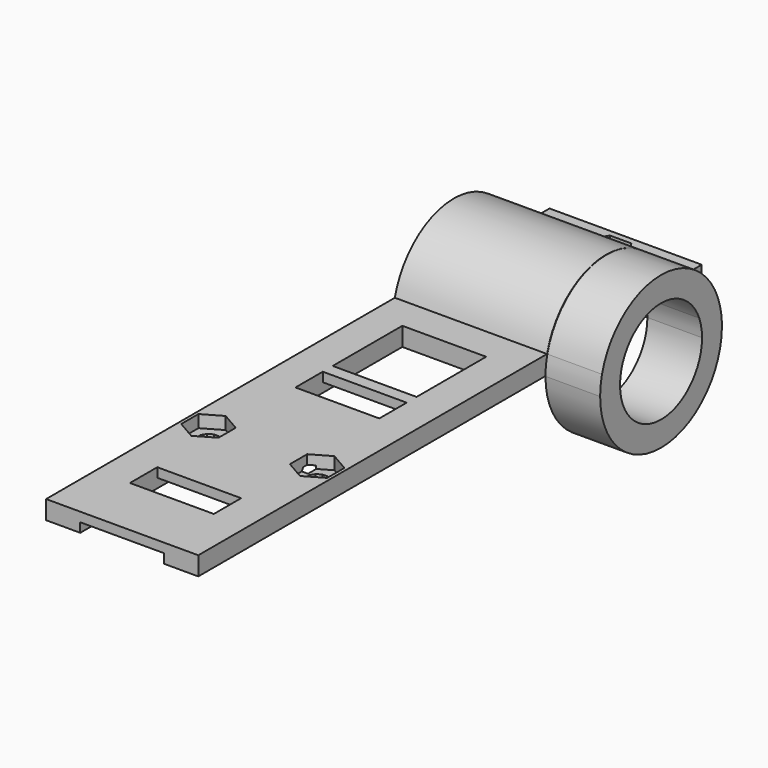
from build123d import *

# Parameters (mm, degrees)
F1_START = 6.75
F0_W     = 14
F0_H     = 1.5
F0_W_2   = 2
F0_W_3   = 5.5
F1_DEPTH = 5.5
F2_DEPTH = 6.75
F5_DEPTH = 6
F6_START = 1
F6_DEPTH = 24
F7_START = 12.3
F7_DEPTH = 8.8


with BuildPart() as f1:
    # F0 (on Right) → F1 (new body)
    with BuildSketch(Plane.YZ.offset(F1_START)):
        with BuildLine():
            ThreePointArc((48.0505140551, 3), (48.3299262154, 1.5115512524), (48.4235405349, 0))
            Line((48.4235405349, 0), (55.4235405349, 0))
            Line((55.4235405349, 0), (55.4235405349, 3))
            Line((55.4235405349, 3), (48.0505140551, 3))
        make_face()
        with BuildLine():
            Line((44.4235405349, 0), (48.4235405349, 0))
            ThreePointArc((48.4235405349, 0), (48.3299262154, 1.5115512524), (48.0505140551, 3))
            Line((48.0505140551, 3), (43.8587536094, 3))
            ThreePointArc((43.8587536094, 3), (44.2811143972, 1.5263505717), (44.4235405349, 0))
        make_face()
        with BuildLine():
            ThreePointArc((48.0505140551, 3), (36.1735405349, 12.25), (24.2965670147, 3))
            Line((24.2965670147, 3), (28.4883274605, 3))
            ThreePointArc((28.4883274605, 3), (36.1735405349, 8.25), (43.8587536094, 3))
            Line((43.8587536094, 3), (48.0505140551, 3))
        make_face()
        with BuildLine():
            ThreePointArc((24.2965670147, 3), (24.0171548545, 1.5115512524), (23.9235405349, 0))
            Line((23.9235405349, 0), (27.9235405349, 0))
            ThreePointArc((27.9235405349, 0), (28.0659666727, 1.5263505717), (28.4883274605, 3))
            Line((28.4883274605, 3), (24.2965670147, 3))
        make_face()
        with BuildLine():
            Line((18.9235405349, 1.5), (18.9235405349, 0))
            Line((18.9235405349, 0), (23.9235405349, 0))
            ThreePointArc((23.9235405349, 0), (24.0171548545, 1.5115512524), (24.2965670147, 3))
            Line((24.2965670147, 3), (18.9235405349, 3))
            Line((18.9235405349, 3), (18.9235405349, 1.5))
        make_face()
        with Locations((11.9235405349, 2.25)):
            Rectangle(F0_W, F0_H)
        with Locations((3.9235405349, 2.25)):
            Rectangle(F0_W_2, F0_H)
        Polygon((-44.6627688753, 1.5), (-45.8764594651, 1.5), (-45.8764594651, 0), (18.9235405349, 0), (18.9235405349, 1.5), (4.9235405349, 1.5), (2.9235405349, 1.5), (-2.5764594651, 1.5), (-8.6444086575, 1.5), (-9.0774213594, 0.75), (-9.9434467632, 0.75), (-10.3764594651, 1.5), (-12.6444086575, 1.5), (-13.0774213594, 0.75), (-13.9434467632, 0.75), (-14.3764594651, 1.5), (-16.6444086575, 1.5), (-17.0774213594, 0.75), (-17.9434467632, 0.75), (-18.3764594651, 1.5), (-20.6444086575, 1.5), (-21.0774213594, 0.75), (-21.9434467632, 0.75), (-22.3764594651, 1.5), (-24.6444086575, 1.5), (-25.0774213594, 0.75), (-25.9434467632, 0.75), (-26.3764594651, 1.5), (-30.3764594651, 1.5), (-35.8764594651, 1.5), (-38.9307180678, 1.5), (-39.3637307697, 0.75), (-40.2297561734, 0.75), (-40.7805591822, 1.5), (-42.9307180678, 1.5), (-43.3637307697, 0.75), (-44.2297561734, 0.75), align=None)
        with Locations((0.1735405349, 2.25)):
            Rectangle(F0_W_3, F0_H)
        Polygon((-2.5764594651, 3), (-30.3764594651, 3), (-30.3764594651, 1.5), (-26.3764594651, 1.5), (-24.6444086575, 1.5), (-22.3764594651, 1.5), (-20.6444086575, 1.5), (-18.3764594651, 1.5), (-16.6444086575, 1.5), (-14.3764594651, 1.5), (-12.6444086575, 1.5), (-10.3764594651, 1.5), (-8.6444086575, 1.5), (-2.5764594651, 1.5), align=None)
        Polygon((-9.0774213594, 0.75), (-8.6444086575, 1.5), (-10.3764594651, 1.5), (-9.9434467632, 0.75), align=None)
        Polygon((-13.0774213594, 0.75), (-12.6444086575, 1.5), (-14.3764594651, 1.5), (-13.9434467632, 0.75), align=None)
        Polygon((-16.6444086575, 1.5), (-18.3764594651, 1.5), (-17.9434467632, 0.75), (-17.0774213594, 0.75), align=None)
        Polygon((-20.6444086575, 1.5), (-22.3764594651, 1.5), (-21.9434467632, 0.75), (-21.0774213594, 0.75), align=None)
        Polygon((-39.3637307697, 0.75), (-38.9307180678, 1.5), (-40.7805591822, 1.5), (-40.2297561734, 0.75), align=None)
        Polygon((-35.8764594651, 3), (-45.8764594651, 3), (-45.8764594651, 1.5), (-44.6627688753, 1.5), (-42.9307180678, 1.5), (-40.7805591822, 1.5), (-38.9307180678, 1.5), (-35.8764594651, 1.5), align=None)
        with Locations((-33.1264594651, 2.25)):
            Rectangle(F0_W_3, F0_H)
        Polygon((-42.9307180678, 1.5), (-44.6627688753, 1.5), (-44.2297561734, 0.75), (-43.3637307697, 0.75), align=None)
        Polygon((-24.6444086575, 1.5), (-26.3764594651, 1.5), (-25.9434467632, 0.75), (-25.0774213594, 0.75), align=None)
    extrude(amount=F1_DEPTH)

    # F0 (on Right) → F2 (join)
    with BuildSketch(Plane.YZ):
        with BuildLine():
            Line((18.9235405349, 1.5), (18.9235405349, 0))
            Line((18.9235405349, 0), (23.9235405349, 0))
            ThreePointArc((23.9235405349, 0), (24.0171548545, 1.5115512524), (24.2965670147, 3))
            Line((24.2965670147, 3), (18.9235405349, 3))
            Line((18.9235405349, 3), (18.9235405349, 1.5))
        make_face()
        with BuildLine():
            ThreePointArc((24.2965670147, 3), (24.0171548545, 1.5115512524), (23.9235405349, 0))
            Line((23.9235405349, 0), (27.9235405349, 0))
            ThreePointArc((27.9235405349, 0), (28.0659666727, 1.5263505717), (28.4883274605, 3))
            Line((28.4883274605, 3), (24.2965670147, 3))
        make_face()
        with BuildLine():
            ThreePointArc((48.0505140551, 3), (36.1735405349, 12.25), (24.2965670147, 3))
            Line((24.2965670147, 3), (28.4883274605, 3))
            ThreePointArc((28.4883274605, 3), (36.1735405349, 8.25), (43.8587536094, 3))
            Line((43.8587536094, 3), (48.0505140551, 3))
        make_face()
        with BuildLine():
            Line((44.4235405349, 0), (48.4235405349, 0))
            ThreePointArc((48.4235405349, 0), (48.3299262154, 1.5115512524), (48.0505140551, 3))
            Line((48.0505140551, 3), (43.8587536094, 3))
            ThreePointArc((43.8587536094, 3), (44.2811143972, 1.5263505717), (44.4235405349, 0))
        make_face()
        with BuildLine():
            ThreePointArc((48.0505140551, 3), (48.3299262154, 1.5115512524), (48.4235405349, 0))
            Line((48.4235405349, 0), (55.4235405349, 0))
            Line((55.4235405349, 0), (55.4235405349, 3))
            Line((55.4235405349, 3), (48.0505140551, 3))
        make_face()
        with Locations((3.9235405349, 2.25)):
            Rectangle(F0_W_2, F0_H)
        Polygon((-2.5764594651, 3), (-30.3764594651, 3), (-30.3764594651, 1.5), (-26.3764594651, 1.5), (-24.6444086575, 1.5), (-22.3764594651, 1.5), (-20.6444086575, 1.5), (-18.3764594651, 1.5), (-16.6444086575, 1.5), (-14.3764594651, 1.5), (-12.6444086575, 1.5), (-10.3764594651, 1.5), (-8.6444086575, 1.5), (-2.5764594651, 1.5), align=None)
        Polygon((-9.0774213594, 0.75), (-8.6444086575, 1.5), (-10.3764594651, 1.5), (-9.9434467632, 0.75), align=None)
        Polygon((-13.0774213594, 0.75), (-12.6444086575, 1.5), (-14.3764594651, 1.5), (-13.9434467632, 0.75), align=None)
        Polygon((-16.6444086575, 1.5), (-18.3764594651, 1.5), (-17.9434467632, 0.75), (-17.0774213594, 0.75), align=None)
        Polygon((-20.6444086575, 1.5), (-22.3764594651, 1.5), (-21.9434467632, 0.75), (-21.0774213594, 0.75), align=None)
        Polygon((-24.6444086575, 1.5), (-26.3764594651, 1.5), (-25.9434467632, 0.75), (-25.0774213594, 0.75), align=None)
        Polygon((-35.8764594651, 3), (-45.8764594651, 3), (-45.8764594651, 1.5), (-44.6627688753, 1.5), (-42.9307180678, 1.5), (-40.7805591822, 1.5), (-38.9307180678, 1.5), (-35.8764594651, 1.5), align=None)
        Polygon((-42.9307180678, 1.5), (-44.6627688753, 1.5), (-44.2297561734, 0.75), (-43.3637307697, 0.75), align=None)
        Polygon((-39.3637307697, 0.75), (-38.9307180678, 1.5), (-40.7805591822, 1.5), (-40.2297561734, 0.75), align=None)
    extrude(amount=F2_DEPTH)

    # F3: F1 across plane


with BuildPart() as f1_1:
    add(f1.part)
    add(f1.part.mirror(Plane.YZ))

    # F4 (on Top) → F5 (cut)
    with BuildSketch(Plane.XY):
        Polygon((-7.570830866, -18.7763650857), (-7.1288567643, -18.0260236477), (-7.1212666834, -17.15522185), (-7.5500943794, -16.397290331), (-8.3004358174, -15.9553162293), (-9.1712376151, -15.9477261485), (-9.929169134, -16.3765538444), (-10.3711432357, -17.1268952825), (-10.3787333166, -17.9976970802), (-9.9499056206, -18.7556285991), (-9.1995641826, -19.1976027008), (-8.3287623849, -19.2051927817), align=None)
        Polygon((8.3004358174, -15.9553162293), (7.5500943794, -16.397290331), (7.1212666834, -17.15522185), (7.1288567643, -18.0260236477), (7.570830866, -18.7763650857), (8.3287623849, -19.2051927817), (9.1995641826, -19.1976027008), (9.9499056206, -18.7556285991), (10.3787333166, -17.9976970802), (10.3711432357, -17.1268952825), (9.929169134, -16.3765538444), (9.1712376151, -15.9477261485), align=None)
        Polygon((1.6211432357, 51.8731047175), (1.179169134, 52.6234461556), (0.4212376151, 53.0522738515), (-0.4495641826, 53.0446837707), (-1.1999056206, 52.602709669), (-1.6287333166, 51.84477815), (-1.6211432357, 50.9739763523), (-1.179169134, 50.2236349143), (-0.4212376151, 49.7948072183), (0.4495641826, 49.8023972992), (1.1999056206, 50.2443714009), (1.6287333166, 51.0023029198), align=None)
    extrude(amount=F5_DEPTH, mode=Mode.SUBTRACT)

    # F4 (on Top) → F6 (cut)
    with BuildSketch(Plane.XY.offset(F6_START)):
        Polygon((1.7320508076, 48.4235405349), (3.4641016151, 51.4235405349), (1.7320508076, 54.4235405349), (-1.7320508076, 54.4235405349), (-3.4641016151, 51.4235405349), (-1.7320508076, 48.4235405349), align=None)
        Polygon((0.4212376151, 53.0522738515), (1.179169134, 52.6234461556), (1.6211432357, 51.8731047175), (1.6287333166, 51.0023029198), (1.1999056206, 50.2443714009), (0.4495641826, 49.8023972992), (-0.4212376151, 49.7948072183), (-1.179169134, 50.2236349143), (-1.6211432357, 50.9739763523), (-1.6287333166, 51.84477815), (-1.1999056206, 52.602709669), (-0.4495641826, 53.0446837707), align=None, mode=Mode.SUBTRACT)
        Polygon((-5.75, -15.8444086575), (-8.75, -14.1123578499), (-11.75, -15.8444086575), (-11.75, -19.3085102726), (-8.75, -21.0405610802), (-5.75, -19.3085102726), align=None)
        Polygon((-7.1212666834, -17.15522185), (-7.1288567643, -18.0260236477), (-7.570830866, -18.7763650857), (-8.3287623849, -19.2051927817), (-9.1995641826, -19.1976027008), (-9.9499056206, -18.7556285991), (-10.3787333166, -17.9976970802), (-10.3711432357, -17.1268952825), (-9.929169134, -16.3765538444), (-9.1712376151, -15.9477261485), (-8.3004358174, -15.9553162293), (-7.5500943794, -16.397290331), align=None, mode=Mode.SUBTRACT)
        Polygon((11.75, -15.8444086575), (8.75, -14.1123578499), (5.75, -15.8444086575), (5.75, -19.3085102726), (8.75, -21.0405610802), (11.75, -19.3085102726), align=None)
        Polygon((7.1212666834, -17.15522185), (7.5500943794, -16.397290331), (8.3004358174, -15.9553162293), (9.1712376151, -15.9477261485), (9.929169134, -16.3765538444), (10.3711432357, -17.1268952825), (10.3787333166, -17.9976970802), (9.9499056206, -18.7556285991), (9.1995641826, -19.1976027008), (8.3287623849, -19.2051927817), (7.570830866, -18.7763650857), (7.1288567643, -18.0260236477), align=None, mode=Mode.SUBTRACT)
    extrude(amount=F6_DEPTH, mode=Mode.SUBTRACT)


with BuildPart() as f7:
    # F0 (on Right) → F7 (new body)
    with BuildSketch(Plane.YZ.offset(F7_START)):
        with BuildLine():
            ThreePointArc((48.0505140551, 3), (36.1735405349, 12.25), (24.2965670147, 3))
            Line((24.2965670147, 3), (28.4883274605, 3))
            ThreePointArc((28.4883274605, 3), (36.1735405349, 8.25), (43.8587536094, 3))
            Line((43.8587536094, 3), (48.0505140551, 3))
        make_face()
        with BuildLine():
            ThreePointArc((24.2965670147, 3), (24.0171548545, 1.5115512524), (23.9235405349, 0))
            Line((23.9235405349, 0), (27.9235405349, 0))
            ThreePointArc((27.9235405349, 0), (28.0659666727, 1.5263505717), (28.4883274605, 3))
            Line((28.4883274605, 3), (24.2965670147, 3))
        make_face()
        with BuildLine():
            Line((44.4235405349, 0), (48.4235405349, 0))
            ThreePointArc((48.4235405349, 0), (48.3299262154, 1.5115512524), (48.0505140551, 3))
            Line((48.0505140551, 3), (43.8587536094, 3))
            ThreePointArc((43.8587536094, 3), (44.2811143972, 1.5263505717), (44.4235405349, 0))
        make_face()
        with BuildLine():
            Line((27.9235405349, 0), (23.9235405349, 0))
            ThreePointArc((23.9235405349, 0), (36.1735405349, -12.25), (48.4235405349, 0))
            Line((48.4235405349, 0), (44.4235405349, 0))
            ThreePointArc((44.4235405349, 0), (36.1735405349, -8.25), (27.9235405349, 0))
        make_face()
    extrude(amount=F7_DEPTH)


solid = Compound([f1_1.part, f7.part])
